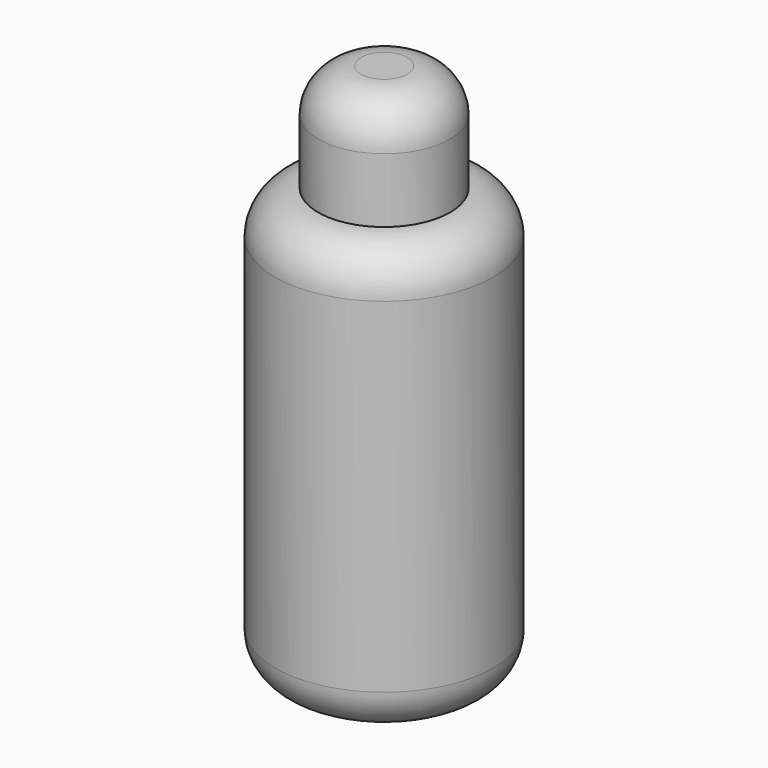
from build123d import *

# Parameters (mm, degrees)
F0_R     = 51.4953011057
F1_DEPTH = 203.2
F2_R     = 20.32
F3_DEPTH = 50.8
F4_R     = 20.32


with BuildPart() as f1:
    # F0 (on Top) → F1 (new body)
    with BuildSketch(Plane.XY):
        Circle(F0_R)
    extrude(amount=F1_DEPTH)

    # F2
    f2_edges = [f1.edges().sort_by_distance(p)[0] for p in [
        (-51.495301, 0, 0),
        (-51.495301, 0, 203.2),
    ]]
    fillet(f2_edges, radius=F2_R)

    # F3 (add): a face of the model
    f3_faces = [f1.faces().sort_by_distance(p)[0] for p in [
        (0, 0, 203.2),
    ]]
    extrude(f3_faces, amount=F3_DEPTH)

    # F4
    f4_edges = [f1.edges().sort_by_distance(p)[0] for p in [
        (-31.175301, 0, 254),
    ]]
    fillet(f4_edges, radius=F4_R)


solid = f1.part
